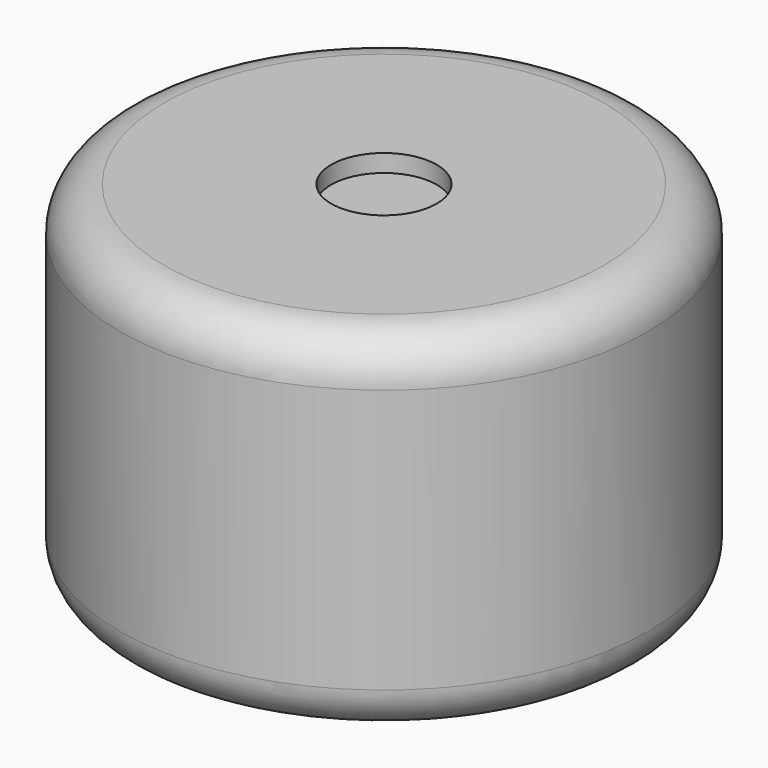
from build123d import *

# Parameters (mm, degrees)
SKETCH005_R      = 6
EXTRUDE003_DEPTH = 2
SKETCH001_R      = 7
EXTRUDE001_DEPTH = 3
SKETCH003_R      = 3.75
SKETCH004_R      = 1
SKETCH002_W      = 8.8
SKETCH002_H      = 4.4
EXTRUDE002_DEPTH = 3
SKETCH_R         = 30
EXTRUDE_DEPTH    = 40
FILLET_R         = 5
FILLET001_R      = 5
FILLET002_R      = 2


with BuildPart() as extrude003:
    # Sketch005 → Extrude003 (new body)
    with BuildSketch(Plane.XY.offset(40)):
        Circle(SKETCH005_R)
    extrude(amount=-EXTRUDE003_DEPTH)


with BuildPart() as bigbuttons:
    # Sketch001 → Extrude001 (new body)
    with BuildSketch(Plane.XY):
        with Locations((12.5, -8)):
            Circle(SKETCH001_R)
        with Locations((-12.5, -8)):
            Circle(SKETCH001_R)
    extrude(amount=-EXTRUDE001_DEPTH)


with BuildPart() as loft_body:
    # Sketch003 → Loft section 0
    with BuildSketch(Plane.XY):
        with Locations((0, -20)):
            Circle(SKETCH003_R)
    # Sketch004 → Loft section 1
    with BuildSketch(Plane.XY.offset(-2)):
        with Locations((0, -20)):
            Circle(SKETCH004_R)
    loft()


with BuildPart() as port_cuts001:
    # Sketch002 → Extrude002 (new body)
    with BuildSketch(Plane.XY):
        with Locations((0, -5.2)):
            Rectangle(SKETCH002_W, SKETCH002_H)
        with Locations((0, -12.6)):
            Rectangle(SKETCH002_W, SKETCH002_H)
    extrude(amount=EXTRUDE002_DEPTH)


with BuildPart() as cut001:
    # Sketch → Extrude (new body)
    with BuildSketch(Plane.XY):
        Circle(SKETCH_R)
    extrude(amount=EXTRUDE_DEPTH)

    # Cut: cut Port Cuts001
    add(port_cuts001.part, mode=Mode.SUBTRACT)

    # Fusion: union Loft body
    add(loft_body.part)

    # Fusion001: union BigButtons
    add(bigbuttons.part)

    # Fillet
    fillet_edges = [cut001.edges().sort_by_distance(p)[0] for p in [
        (-30, 0, 40),
    ]]
    fillet(fillet_edges, radius=FILLET_R)

    # Fillet001
    fillet001_edges = [cut001.edges().sort_by_distance(p)[0] for p in [
        (-30, 0, 0),
    ]]
    fillet(fillet001_edges, radius=FILLET001_R)

    # Fillet002
    fillet002_edges = [cut001.edges().sort_by_distance(p)[0] for p in [
        (-19.5, -8, -3),
        (5.5, -8, -3),
    ]]
    fillet(fillet002_edges, radius=FILLET002_R)

    # Cut001: cut Extrude003
    add(extrude003.part, mode=Mode.SUBTRACT)


solid = cut001.part
